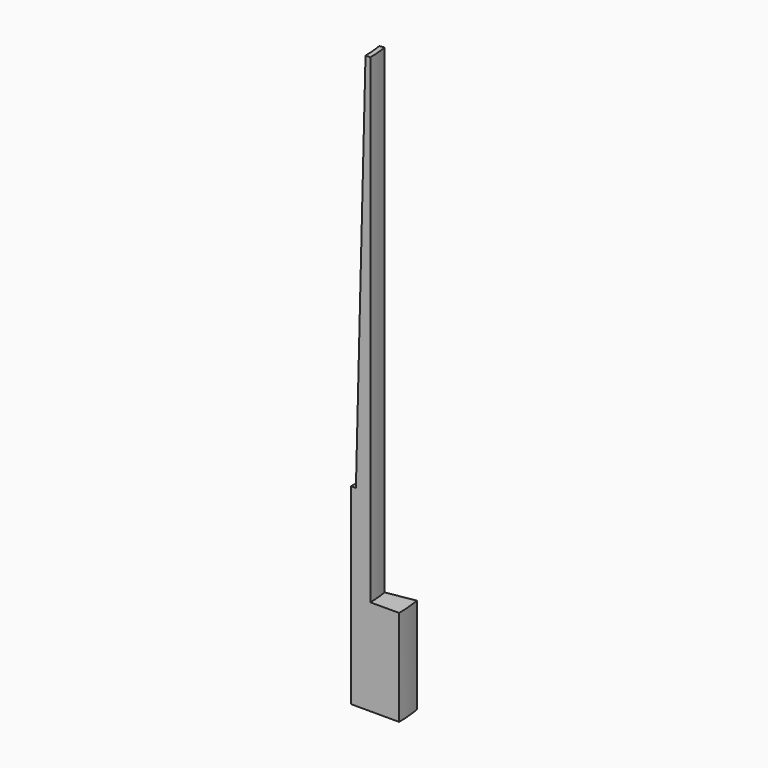
from build123d import *

# Parameters (mm, degrees)
F1_ANGLE = 10


with BuildPart() as f1:
    # F0 (on Front) → F1 (revolve)
    with BuildSketch(Plane.XZ):
        Polygon((100, 200), (100, 0), (150, 0), (150, 100), (120, 100), (120, 600), (115, 600), (105.25, 210), (105, 200), align=None)
    revolve(axis=Axis((0, 0, 405), (0, 0, 1)), revolution_arc=F1_ANGLE)


solid = f1.part
